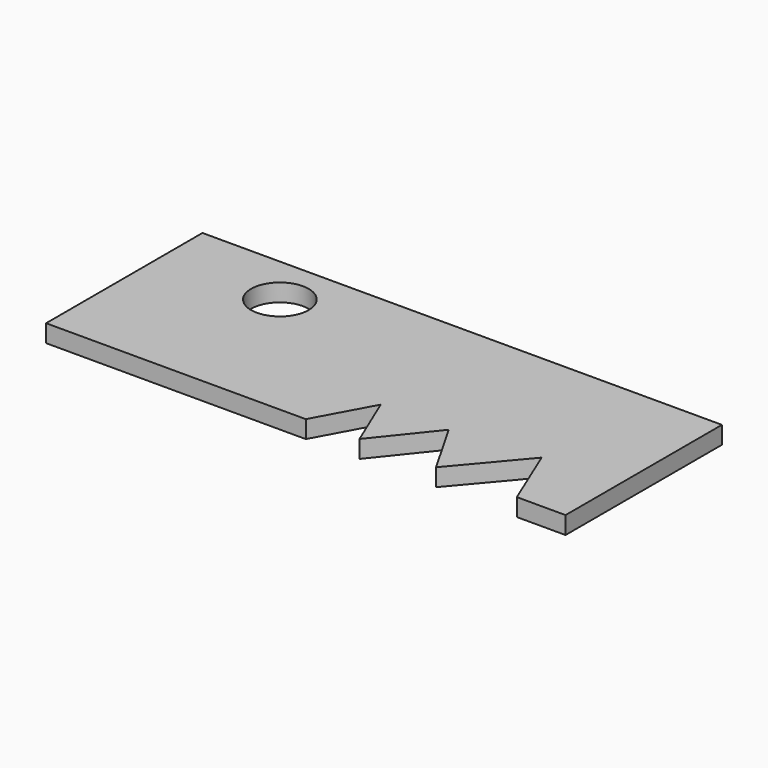
from build123d import *

# Parameters (mm, degrees)
F0_W     = 88.67468
F0_H     = 33.368226
F1_DEPTH = 3
F2_R     = 4.914899
F3_DEPTH = 25
F5_DEPTH = 25


with BuildPart() as f1:
    # F0 (on Top) → F1 (new body)
    with BuildSketch(Plane.XY):
        Rectangle(F0_W, F0_H)
    extrude(amount=F1_DEPTH)

    # F2 (on face) → F3 (cut)
    with BuildSketch(Plane.XY.offset(3)):
        with Locations((-24.283957, 8.138201)):
            Circle(F2_R)
    extrude(amount=-F3_DEPTH, mode=Mode.SUBTRACT)

    # F4 (on face) → F5 (cut)
    with BuildSketch(Plane.XY.offset(3)):
        Polygon((5.171371, -7.167339), (0, -16.684113), (18.780243, -47.993954), (36.018144, -16.684113), (31.481858, -5.715726), (22.227822, -16.684113), (16.784273, -7.167339), (9.163308, -16.684113), align=None)
    extrude(amount=-F5_DEPTH, mode=Mode.SUBTRACT)


solid = f1.part
